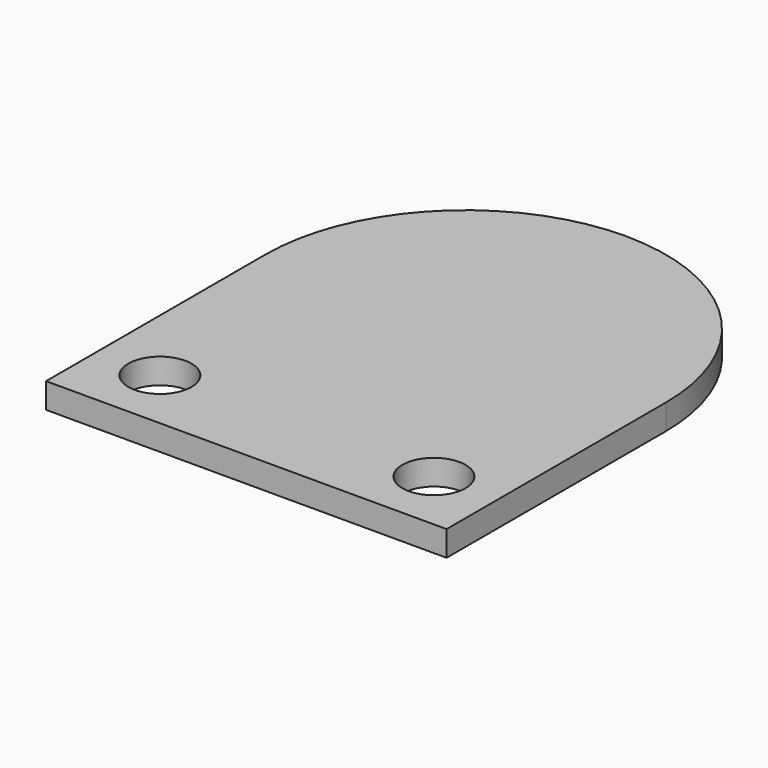
from build123d import *

# Parameters (mm, degrees)
F0_R     = 1.5
F1_DEPTH = 1.2


with BuildPart() as f1:
    # F0 (on Top) → F1 (new body)
    with BuildSketch(Plane.XY):
        with BuildLine():
            Line((-9.5, 0), (9.5, 0))
            ThreePointArc((9.5, 0), (0, 9.5), (-9.5, 0))
        make_face()
        with BuildLine():
            ThreePointArc((-9.5, 0), (0, -9.5), (9.5, 0))
            Line((9.5, 0), (-9.5, 0))
        make_face()
        with BuildLine():
            Line((9.5, -13), (9.5, 0))
            ThreePointArc((9.5, 0), (0, -9.5), (-9.5, 0))
            Line((-9.5, 0), (-9.5, -13))
            Line((-9.5, -13), (9.5, -13))
        make_face()
        with Locations((-6.5, -10)):
            Circle(F0_R, mode=Mode.SUBTRACT)
        with Locations((6.5, -10)):
            Circle(F0_R, mode=Mode.SUBTRACT)
    extrude(amount=F1_DEPTH)


solid = f1.part
